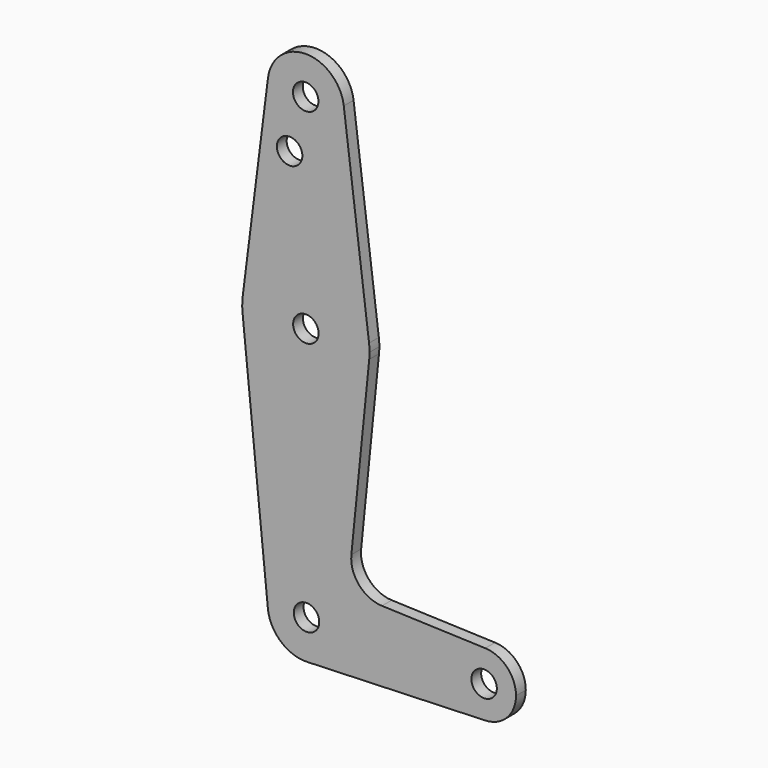
from build123d import *

# Parameters (mm, degrees)
F0_R     = 3.175
F1_DEPTH = 3.048


with BuildPart() as f1:
    # F0 (on Front) → F1 (new body)
    with BuildSketch(Plane.XZ):
        with BuildLine():
            Line((-9.4502929642, 115.490625), (-15.7504882737, 65.484375))
            ThreePointArc((-15.7504882737, 65.484375), (0, 79.375), (15.7504882737, 65.484375))
            Line((15.7504882737, 65.484375), (9.4502929642, 115.490625))
            ThreePointArc((9.4502929642, 115.490625), (9.5063048942, 114.896483242), (9.525, 114.3))
            ThreePointArc((9.525, 114.3), (-0.596483242, 104.7936951058), (-9.4502929642, 115.490625))
        make_face()
        with Locations((-4.0548755787, 101.1682)):
            Circle(F0_R, mode=Mode.SUBTRACT)
        with BuildLine():
            ThreePointArc((9.4502929642, 115.490625), (0, 123.825), (-9.4502929642, 115.490625))
            ThreePointArc((-9.4502929642, 115.490625), (-0.596483242, 104.7936951058), (9.525, 114.3))
            ThreePointArc((9.525, 114.3), (9.5063048942, 114.896483242), (9.4502929642, 115.490625))
        make_face()
        with Locations((-0.0476874348, 114.4121502811)):
            Circle(F0_R, mode=Mode.SUBTRACT)
        with BuildLine():
            ThreePointArc((-15.7504882737, 65.484375), (-15.8737438155, 63.6997054867), (-15.7954255641, 61.9125))
            ThreePointArc((-15.7954255641, 61.9125), (0, 47.625), (15.7954255641, 61.9125))
            ThreePointArc((15.7954255641, 61.9125), (15.8550939106, 62.7052534459), (15.875, 63.5))
            ThreePointArc((15.875, 63.5), (15.8438414904, 64.4941387366), (15.7504882737, 65.484375))
            ThreePointArc((15.7504882737, 65.484375), (0, 79.375), (-15.7504882737, 65.484375))
        make_face()
        with Locations((0, 63.5)):
            Circle(F0_R, mode=Mode.SUBTRACT)
        with BuildLine():
            ThreePointArc((-9.4772553384, -0.9525), (-0.4768479324, 9.5130563464), (9.525, 0))
            ThreePointArc((9.525, 0), (6.8544082857, -6.6138273378), (0.3401785714, -9.5189234444))
            Line((0.3401785714, -9.5189234444), (44.7334821429, -7.9324362036))
            ThreePointArc((44.7334821429, -7.9324362036), (36.5125, 0), (44.7334821429, 7.9324362036))
            Line((44.7334821429, 7.9324362036), (18.9676000005, 8.8532337108))
            ThreePointArc((18.9676000005, 8.8532337108), (13.2611998974, 11.5713591498), (11.3411865923, 17.5933818124))
            Line((11.3411865923, 17.5933818124), (15.7954255641, 61.9125))
            ThreePointArc((15.7954255641, 61.9125), (0, 47.625), (-15.7954255641, 61.9125))
            Line((-15.7954255641, 61.9125), (-9.4772553384, -0.9525))
        make_face()
        with BuildLine():
            ThreePointArc((0.3401785714, -9.5189234444), (6.8544082857, -6.6138273378), (9.525, 0))
            ThreePointArc((9.525, 0), (-0.4768479324, 9.5130563464), (-9.4772553384, -0.9525))
            ThreePointArc((-9.4772553384, -0.9525), (-6.2623833816, -7.1769199091), (0.3401785714, -9.5189234444))
        make_face()
        with Locations((0.1608693999, 0.2054393418)):
            Circle(F0_R, mode=Mode.SUBTRACT)
        with BuildLine():
            ThreePointArc((44.7334821429, 7.9324362036), (36.5125, 0), (44.7334821429, -7.9324362036))
            ThreePointArc((44.7334821429, -7.9324362036), (50.1620069047, -5.5115227815), (52.3875, 0))
            ThreePointArc((52.3875, 0), (50.1620069047, 5.5115227815), (44.7334821429, 7.9324362036))
        make_face()
        with Locations((44.4344847476, 0.0307258809)):
            Circle(F0_R, mode=Mode.SUBTRACT)
    extrude(amount=F1_DEPTH)


solid = f1.part
